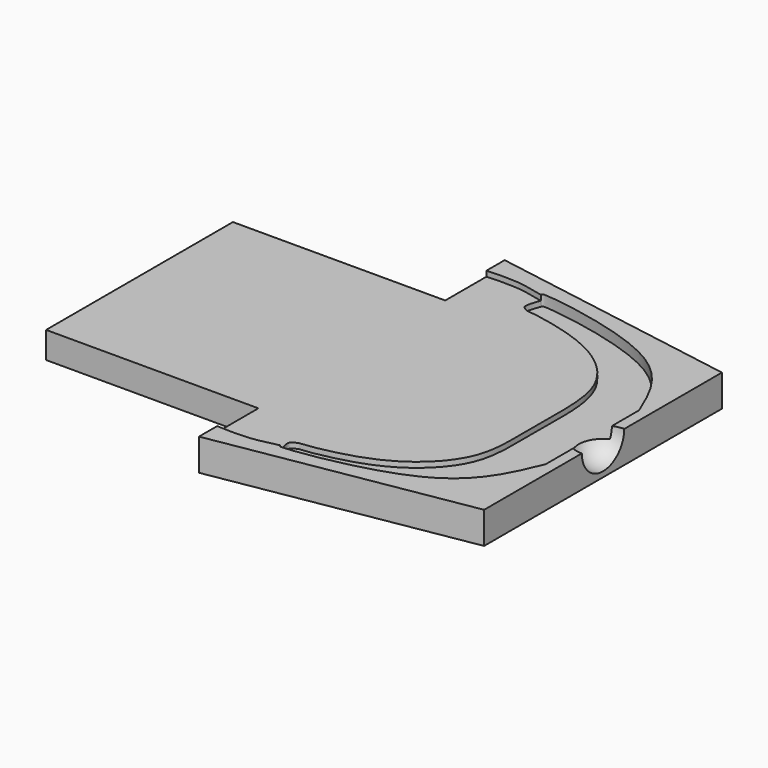
from build123d import *

# Parameters (mm, degrees)
F1_DEPTH = 38.1
F3_DEPTH = 12.7
F5_ANGLE = 180
F6_DEPTH = 6.35
F8_DEPTH = 31.75


with BuildPart() as f1:
    # F0 (on Top) → F1 (new body)
    with BuildSketch(Plane.XY):
        Polygon((0, 457.2), (0, 0), (300.5368529815, 50.8), (300.5368529815, 406.4), align=None)
    extrude(amount=F1_DEPTH)

    # F2 (on face) → F3 (cut)
    with BuildSketch(Plane.XY.offset(38.1)):
        with BuildLine():
            Line((287.8368529815, 158.75), (287.8368529815, 228.6))
            Line((287.8368529815, 228.6), (287.8368529815, 298.45))
            add(Edge.make_bspline(
                [(287.8368529815, 298.45), (274.0976885543, 331.7129114168), (244.462232063, 403.4612317728), (73.3301440344, 427.7271384352), (70.74195792, 425.2940959796), (70.0230365024, 423.6438925683)],
                knots=[0, 0, 0, 0, 0.1680777292, 0.3625447701, 0.3933937659, 0.3933937659, 0.3933937659, 0.3933937659], degree=3))
            add(Edge.make_bspline(
                [(70.0230365024, 423.6438925683), (68.4355376678, 419.9999671984), (63.377452963, 404.8697109281), (68.3702936505, 402.2079819696), (73.2398539672, 399.3490471662), (77.3060373008, 399.9323880306), (160.4823825419, 386.0696943096), (229.5400089317, 324.4485337175), (224.3368529815, 260.4551017284), (224.3368529815, 228.6)],
                knots=[0.3933937659, 0.3933937659, 0.3933937659, 0.3933937659, 0.4615135128, 0.495784539, 0.5311346164, 0.5602485234, 0.6989412506, 0.848957098, 1, 1, 1, 1], degree=3))
            add(Edge.make_bspline(
                [(70.0230365024, 33.5561074317), (68.4355376678, 37.1999006103), (63.377452963, 52.3292730677), (68.3702936505, 54.9937890625), (73.2398539672, 57.8444840887), (77.3060373008, 57.3174367131), (160.4823825419, 70.0436920791), (229.5400089317, 136.9971102414), (224.3368529815, 187.5921785831), (224.3368529815, 228.6)],
                knots=[0.3933937659, 0.3933937659, 0.3933937659, 0.3933937659, 0.4615135128, 0.495784539, 0.5311346164, 0.5602485234, 0.6989412506, 0.848957098, 1, 1, 1, 1], degree=3))
            add(Edge.make_bspline(
                [(287.8368529815, 158.75), (274.0976885543, 125.4870885832), (244.462232063, 53.7388397395), (73.3301440344, 29.4726759186), (70.74195792, 31.9059638852), (70.0230365024, 33.5561074317)],
                knots=[0, 0, 0, 0, 0.1680777292, 0.3625447701, 0.3933937659, 0.3933937659, 0.3933937659, 0.3933937659], degree=3))
        make_face()
    extrude(amount=-F3_DEPTH, mode=Mode.SUBTRACT)

    # F4 (on face) → F5 (revolve, cut)
    with BuildSketch(Plane.XY.offset(38.1)):
        with BuildLine():
            ThreePointArc((268.7868529815, 228.6), (278.0862126788, 206.1493596973), (300.5368529815, 196.85))
            Line((300.5368529815, 196.85), (300.5368529815, 228.6))
            Line((300.5368529815, 228.6), (268.7868529815, 228.6))
        make_face()
    revolve(axis=Axis((284.6618529815, 228.6, 38.1), (1, 0, 0)), revolution_arc=F5_ANGLE, mode=Mode.SUBTRACT)

    # F2 (on face) → F6 (cut)
    with BuildSketch(Plane.XY.offset(38.1)):
        with BuildLine():
            add(Edge.make_bspline(
                [(70.0230365024, 33.5561074317), (59.3142063381, 30.9359426227), (37.2815163913, 25.5451316791), (12.6563049092, 26.6596121467), (0, 27.2324074148)],
                knots=[0, 0, 0, 0, 0.4860427932, 1, 1, 1, 1], degree=3))
            add(Edge.make_bspline(
                [(70.0230365024, 33.5561074317), (68.4355376678, 37.1999006103), (63.377452963, 52.3292730677), (68.3702936505, 54.9937890625), (73.2398539672, 57.8444840887), (77.3060373008, 57.3174367131), (160.4823825419, 70.0436920791), (229.5400089317, 136.9971102414), (224.3368529815, 187.5921785831), (224.3368529815, 228.6)],
                knots=[0.3933937659, 0.3933937659, 0.3933937659, 0.3933937659, 0.4615135128, 0.495784539, 0.5311346164, 0.5602485234, 0.6989412506, 0.848957098, 1, 1, 1, 1], degree=3))
            add(Edge.make_bspline(
                [(70.0230365024, 423.6438925683), (68.4355376678, 419.9999671984), (63.377452963, 404.8697109281), (68.3702936505, 402.2079819696), (73.2398539672, 399.3490471662), (77.3060373008, 399.9323880306), (160.4823825419, 386.0696943096), (229.5400089317, 324.4485337175), (224.3368529815, 260.4551017284), (224.3368529815, 228.6)],
                knots=[0.3933937659, 0.3933937659, 0.3933937659, 0.3933937659, 0.4615135128, 0.495784539, 0.5311346164, 0.5602485234, 0.6989412506, 0.848957098, 1, 1, 1, 1], degree=3))
            add(Edge.make_bspline(
                [(70.0230365024, 423.6438925683), (59.3142063381, 426.2640573773), (37.2815163913, 431.6548683209), (12.6563049092, 430.5403878533), (0, 429.9675925852)],
                knots=[0, 0, 0, 0, 0.4860427932, 1, 1, 1, 1], degree=3))
            Line((0, 429.9675925852), (0, 27.2324074148))
        make_face()
    extrude(amount=-F6_DEPTH, mode=Mode.SUBTRACT)

    # F7 (on face) → F8 (join)
    with BuildSketch(Plane.XY.offset(31.75)):
        Polygon((0, 228.6), (0, 368.3), (-254, 368.3), (-254, 88.9), (0, 88.9), align=None)
    extrude(amount=-F8_DEPTH)


solid = f1.part
